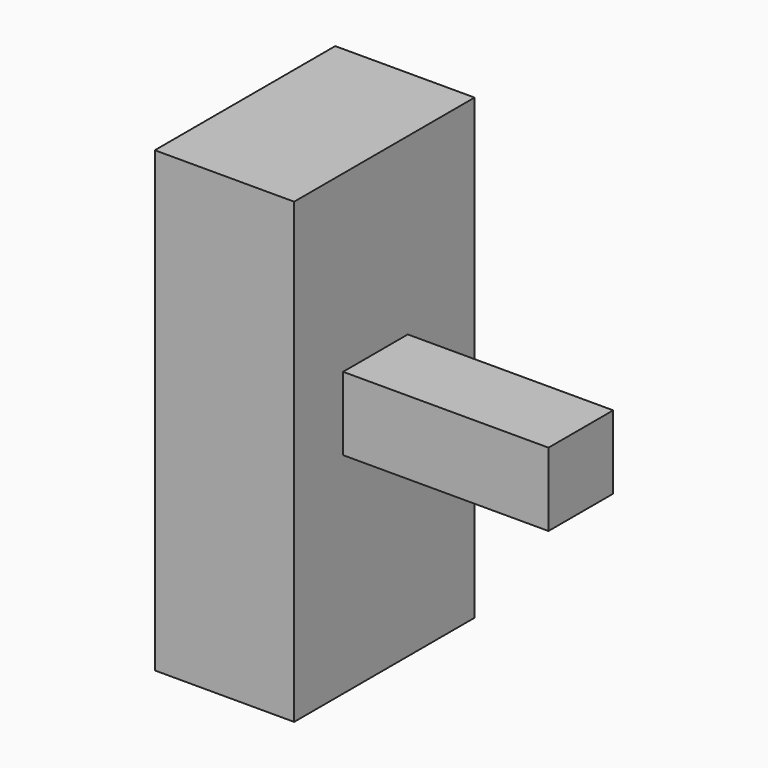
from build123d import *

# Parameters (mm, degrees)
F0_W     = 17.23101
F0_H     = 56.631804
F1_DEPTH = 27.886009
F2_W     = 10
F2_H     = 9.07563
F3_DEPTH = 25.4


with BuildPart() as f1:
    # F0 (on Front) → F1 (new body)
    with BuildSketch(Plane.XZ):
        with Locations((-8.615505, 28.315902)):
            Rectangle(F0_W, F0_H)
    extrude(amount=F1_DEPTH)

    # F2 (on face) → F3 (join)
    with BuildSketch(Plane.YZ):
        with Locations((-15.322338, 30.503517)):
            Rectangle(F2_W, F2_H)
    extrude(amount=F3_DEPTH)


solid = f1.part
